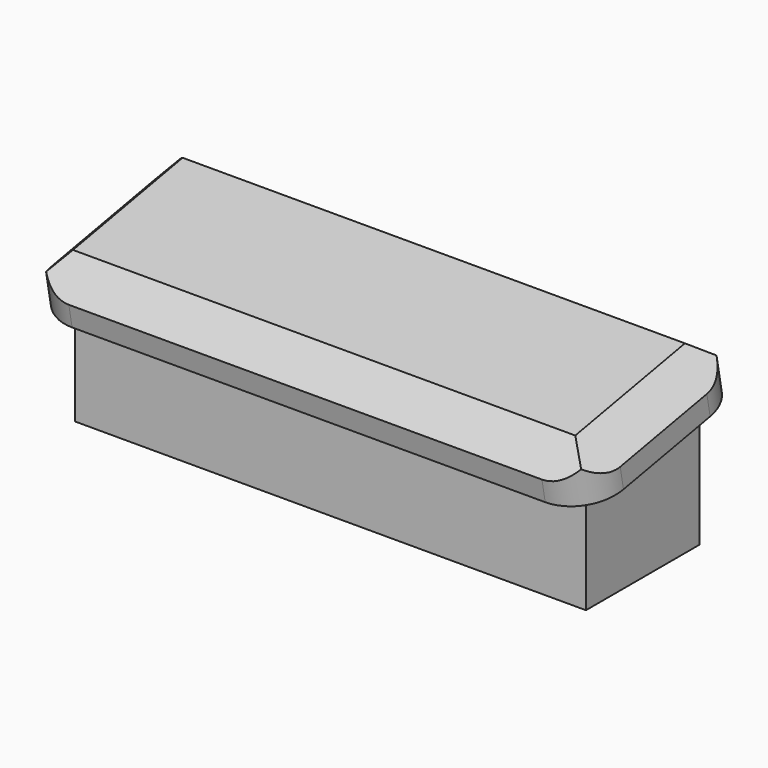
from build123d import *

# Parameters (mm, degrees)
F0_W      = 39
F0_H      = 14
F1_DEPTH  = 3.5
F2_W      = 35
F2_H      = 9.7
F2_W_2    = 30
F2_H_2    = 4.7
F3_DEPTH  = 9
F5_DEPTH  = 22.5
F6_W      = 38.4088279873
F6_H      = 13.5485363163
F7_DEPTH  = 3.5
F8_SIZE   = 2
F9_R      = 3
F10_DEPTH = 39.001


with BuildPart() as f1:
    # F0 (on Top) → F1 (new body)
    with BuildSketch(Plane.XY):
        Rectangle(F0_W, F0_H)
    extrude(amount=F1_DEPTH)

    # F2 (on face) → F3 (join)
    with BuildSketch(Plane.XY.offset(3.5)):
        Rectangle(F2_W, F2_H)
        Rectangle(F2_W_2, F2_H_2, mode=Mode.SUBTRACT)
    extrude(amount=F3_DEPTH)

    # F4 (on Right) → F5 (cut, symmetric)
    with BuildSketch(Plane.YZ):
        Polygon((-4.85, 10.7), (4.85, 12.501087971), (-5.2555450427, 12.884117032), align=None)
    extrude(amount=F5_DEPTH, both=True, mode=Mode.SUBTRACT)

    # F6 (on face) → F7 (join)
    with BuildSketch(Plane(origin=(0, -2.0821921756, 11.2139242658), x_dir=(1, 0, 0), z_dir=(0, -0.1825588214, 0.9831949332))):
        with Locations((-0.0044139937, 2.0591521208)):
            Rectangle(F6_W, F6_H)
    extrude(amount=F7_DEPTH)

    # F8
    f8_edges = [f1.edges().sort_by_distance(p)[0] for p in [
        (-0.004414, -7.357026, 13.794321),
        (19.2, -0.6966, 15.031023),
        (-0.004414, 5.963826, 16.267725),
        (-19.208828, -0.6966, 15.031023),
    ]]
    chamfer(f8_edges, length=F8_SIZE)

    # F9
    f9_edges = [f1.edges().sort_by_distance(p)[0] for p in [
        (19.2, -6.854989, 11.090534),
        (19.2, 6.465863, 13.563939),
        (-19.208828, 6.465863, 13.563939),
        (-19.208828, -6.854989, 11.090534),
    ]]
    fillet(f9_edges, radius=F9_R)

    # F10 (cut, through all): a face of the model
    f10_faces = [f1.faces().sort_by_distance(p)[0] for p in [
        (-19.5, 0, 1.75),
    ]]
    extrude(f10_faces, amount=-F10_DEPTH, mode=Mode.SUBTRACT)


solid = f1.part
